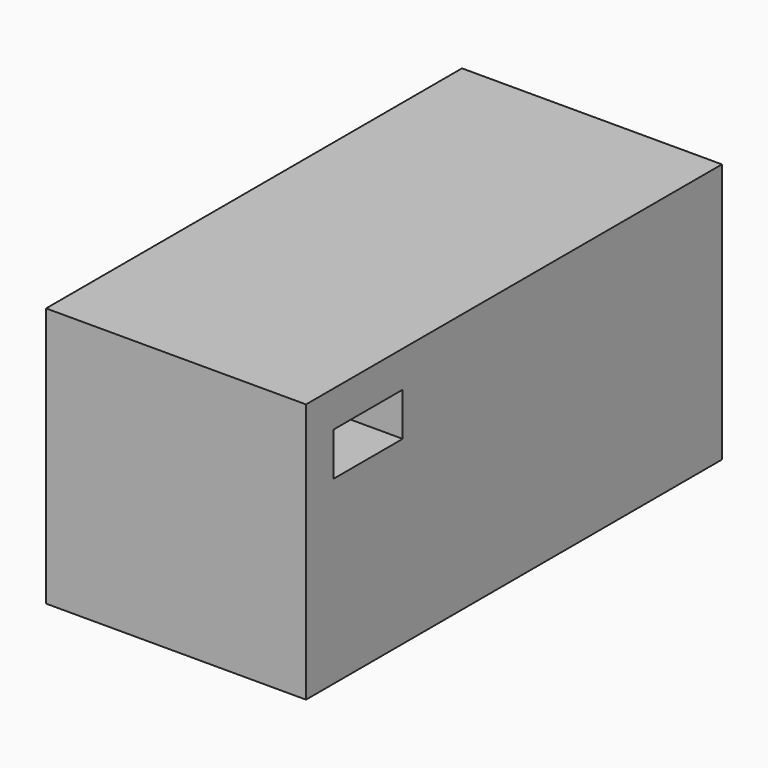
from build123d import *

# Parameters (mm, degrees)
F0_W     = 38.1
F0_H     = 38.1
F1_DEPTH = 38.1
F2_W     = 12.7
F2_H     = 6.35
F3_DEPTH = 38.1


with BuildPart() as f1:
    # F0 (on Front) → F1 (new body, symmetric)
    with BuildSketch(Plane.XZ):
        Rectangle(F0_W, F0_H)
    extrude(amount=F1_DEPTH, both=True)

    # F2 (on face) → F3 (cut)
    with BuildSketch(Plane(origin=(-19.05, 0, 0), x_dir=(0, -1, 0), z_dir=(-1, 0, 0))):
        with Locations((26.734383, 10.578335)):
            Rectangle(F2_W, F2_H)
    extrude(amount=-F3_DEPTH, mode=Mode.SUBTRACT)


solid = f1.part
